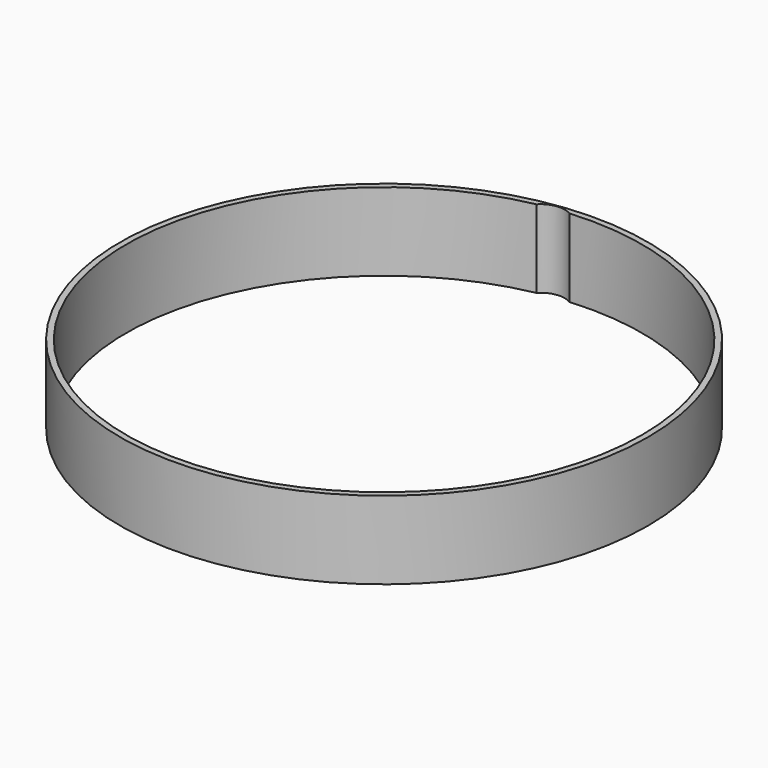
from build123d import *

# Parameters (mm, degrees)
SKETCH006_R       = 4
EXTRUDE008_DEPTH  = 13
CYLINDER003_R     = 43
CYLINDER003_DEPTH = 13
CYLINDER002_R     = 44
CYLINDER002_DEPTH = 13


with BuildPart() as extrude008:
    # Sketch006 → Extrude008 (new body)
    with BuildSketch(Plane.XY):
        with Locations((-5.45, 39.43)):
            Circle(SKETCH006_R)
    extrude(amount=EXTRUDE008_DEPTH)


with BuildPart() as extrude008_1:
    # Extrude008 placement: moved
    add(extrude008.part.moved(Location((0, 0, -5))))


with BuildPart() as overlap_cutout:
    # Cylinder003 → Cylinder003 (new body)
    with BuildSketch(Plane.XY.offset(-5)):
        Circle(CYLINDER003_R)
    extrude(amount=CYLINDER003_DEPTH)

    # Fusion: union Extrude008
    add(extrude008_1.part)


with BuildPart() as overlap_with_cutout:
    # Cylinder002 → Cylinder002 (new body)
    with BuildSketch(Plane.XY.offset(-5)):
        Circle(CYLINDER002_R)
    extrude(amount=CYLINDER002_DEPTH)

    # Cut006: cut overlap-cutout
    add(overlap_cutout.part, mode=Mode.SUBTRACT)


solid = overlap_with_cutout.part
